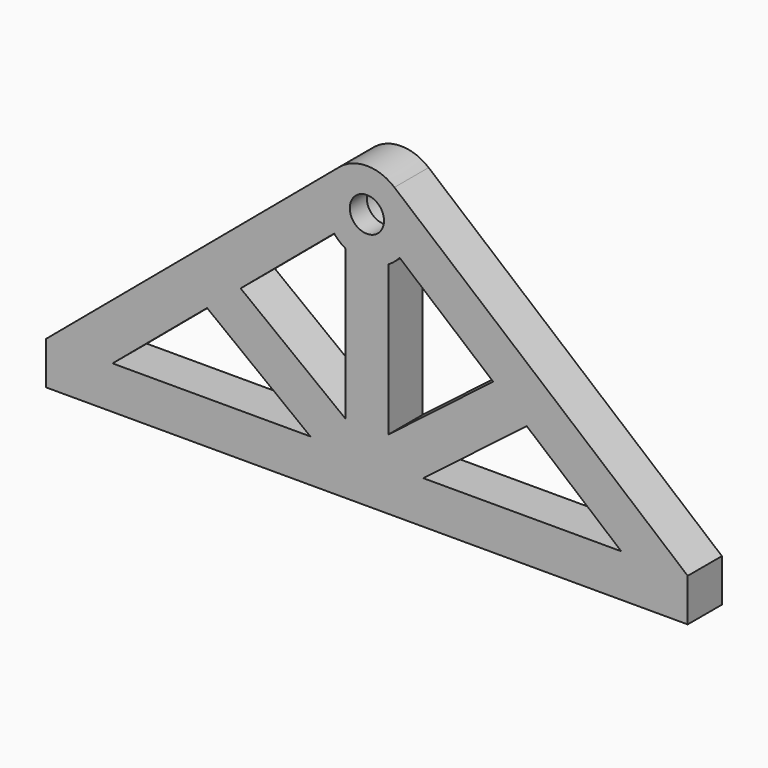
from build123d import *

# Parameters (mm, degrees)
F1_DEPTH = 10
F2_D     = 8
F2_DEPTH = 25
F2_TIP   = 2.4034424761
F3_D     = 10.4
F3_DEPTH = 4.3
F3_TIP   = 3.1244752189


with BuildPart() as f1:
    # F0 (on Front) → F1 (new body)
    with BuildSketch(Plane.XZ):
        with BuildLine():
            Line((-75, 10), (-75, 0))
            Line((-75, 0), (75, 0))
            Line((75, 0), (75, 10))
            Line((75, 10), (6.4358378053, 67.6537567079))
            ThreePointArc((6.4358378053, 67.6537567079), (0, 70), (-6.4358378053, 67.6537567079))
            Line((-6.4358378053, 67.6537567079), (-75, 10))
        make_face()
        Polygon((-13.1993114793, 10), (-59.46200743, 10), (-37.3569899514, 28.587513636), align=None, mode=Mode.SUBTRACT)
        with BuildLine():
            Line((-29.5214792948, 35.1761834399), (-7.6537567079, 53.5641621947))
            ThreePointArc((-7.6537567079, 53.5641621947), (-6.4238926361, 52.3362148125), (-5, 51.3397459622))
            Line((-5, 51.3397459622), (-5, 16.3087524782))
            Line((-5, 16.3087524782), (-29.5214792948, 35.1761834399))
        make_face(mode=Mode.SUBTRACT)
        Polygon((37.3569899514, 28.587513636), (59.46200743, 10), (13.1993114793, 10), align=None, mode=Mode.SUBTRACT)
        with BuildLine():
            ThreePointArc((5, 51.3397459622), (6.4238926361, 52.3362148125), (7.6537567079, 53.5641621947))
            Line((7.6537567079, 53.5641621947), (29.5214792948, 35.1761834399))
            Line((29.5214792948, 35.1761834399), (5, 16.3087524782))
            Line((5, 16.3087524782), (5, 51.3397459622))
        make_face(mode=Mode.SUBTRACT)
    extrude(amount=F1_DEPTH)

    # F2
    with Locations(Plane(origin=(0, 0, 0), x_dir=(1, 0, 0), z_dir=(0, 1, 0))):
        with Locations((0, -60)):
            Hole(F2_D / 2, depth=F2_DEPTH)
            with Locations((0, 0, -(F2_DEPTH + F2_TIP / 2))):  # 118° drill point
                Cone(0, F2_D / 2, F2_TIP, mode=Mode.SUBTRACT)

    # F3
    with Locations(Plane(origin=(0, 0, 0), x_dir=(1, 0, 0), z_dir=(0, 1, 0))):
        with Locations((0, -60)):
            Hole(F3_D / 2, depth=F3_DEPTH)
            with Locations((0, 0, -(F3_DEPTH + F3_TIP / 2))):  # 118° drill point
                Cone(0, F3_D / 2, F3_TIP, mode=Mode.SUBTRACT)


solid = f1.part
